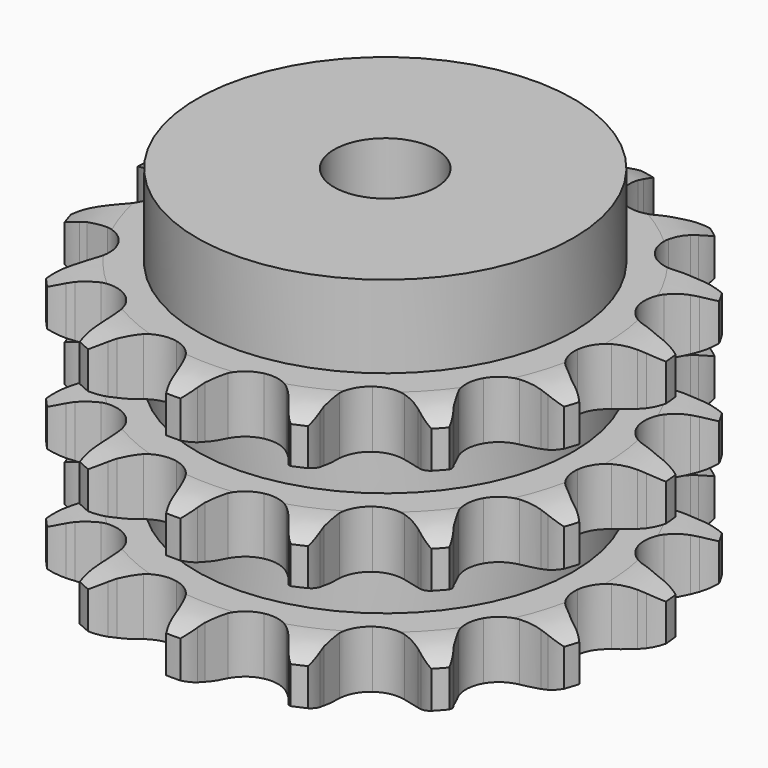
from build123d import *

# Parameters (mm, degrees)
PAD_DEPTH         = 42.1
SKETCH001_R       = 29.5
PAD001_DEPTH      = 55
SKETCH002_R       = 8
POCKET_DEPTH      = 0.001
POCKET_DEPTH_BACK = 55.001


with BuildPart() as part:
    # Sprocket → Pad (new body)
    with BuildSketch(Plane.XY):
        with BuildLine():
            ThreePointArc((-8.947326, 42.093861), (-7.364536, 40.607501), (-6.211077, 38.767928))
            Line((-6.211077, 38.767928), (-5.737395, 37.739646))
            ThreePointArc((-5.737395, 37.739646), (-4.954564, 36.285769), (-3.99725, 34.940357))
            ThreePointArc((-3.99725, 34.940357), (-2.214334, 33.534819), (0, 33.033766))
            ThreePointArc((0, 33.033766), (2.214334, 33.534819), (3.99725, 34.940357))
            ThreePointArc((3.99725, 34.940357), (4.954564, 36.285769), (5.737395, 37.739646))
            Line((5.737395, 37.739646), (6.211077, 38.767928))
            ThreePointArc((6.211077, 38.767928), (7.364536, 40.607501), (8.947326, 42.093861))
            ThreePointArc((8.947326, 42.093861), (9.78872, 40.092224), (10.094235, 37.942538))
            Line((10.094235, 37.942538), (10.108725, 36.810491))
            ThreePointArc((10.108725, 36.810491), (10.232533, 35.163902), (10.559854, 33.545433))
            ThreePointArc((10.559854, 33.545433), (11.616945, 31.536232), (13.436043, 30.177847))
            ThreePointArc((13.436043, 30.177847), (15.662734, 29.734931), (17.863193, 30.293776))
            Line((17.863193, 30.293776), (20.591468, 32.143273))
            ThreePointArc((20.591468, 32.143273), (21.008987, 32.525711), (21.442439, 32.889992))
            ThreePointArc((21.442439, 32.889992), (23.244397, 34.101371), (25.294905, 34.81545))
            ThreePointArc((25.294905, 34.81545), (25.249418, 32.644638), (24.654163, 30.556537))
            Line((24.654163, 30.556537), (24.206956, 29.516468))
            ThreePointArc((24.206956, 29.516468), (23.650332, 27.961877), (23.291063, 26.350198))
            ThreePointArc((23.291063, 26.350198), (23.439549, 24.084744), (24.548873, 22.103904))
            ThreePointArc((24.548873, 22.103904), (26.402906, 20.793603), (28.640428, 20.409126))
            Line((28.640428, 20.409126), (31.88509, 20.989036))
            ThreePointArc((31.88509, 20.989036), (32.422063, 21.16859), (32.966207, 21.325077))
            ThreePointArc((32.966207, 21.325077), (35.10509, 21.698805), (37.268765, 21.517132))
            ThreePointArc((37.268765, 21.517132), (36.344261, 19.552498), (34.951162, 17.887034))
            Line((34.951162, 17.887034), (34.119583, 17.118779))
            ThreePointArc((34.119583, 17.118779), (32.978773, 15.924989), (31.995036, 14.598775))
            ThreePointArc((31.995036, 14.598775), (31.209241, 12.468786), (31.416979, 10.207995))
            ThreePointArc((31.416979, 10.207995), (32.577775, 8.256872), (34.465472, 6.995553))
            Line((34.465472, 6.995553), (37.665489, 6.205605))
            ThreePointArc((37.665489, 6.205605), (38.22907, 6.151228), (38.789819, 6.072863))
            ThreePointArc((38.789819, 6.072863), (40.895795, 5.544318), (42.798517, 4.498305))
            ThreePointArc((42.798517, 4.498305), (41.154852, 3.079553), (39.204788, 2.124701))
            Line((39.204788, 2.124701), (38.132625, 1.761098))
            ThreePointArc((38.132625, 1.761098), (36.604885, 1.134526), (35.166776, 0.323091))
            ThreePointArc((35.166776, 0.323091), (33.582573, -1.30314), (32.852804, -3.452969))
            ThreePointArc((32.852804, -3.452969), (33.119651, -5.707547), (34.331124, -7.627615))
            Line((34.331124, -7.627615), (36.933183, -9.650833))
            ThreePointArc((36.933183, -9.650833), (37.425923, -9.929737), (37.906319, -10.229404))
            ThreePointArc((37.906319, -10.229404), (39.615245, -11.568832), (40.928016, -13.298319))
            ThreePointArc((40.928016, -13.298319), (38.849395, -13.925875), (36.679549, -14.005013))
            Line((36.679549, -14.005013), (35.55219, -13.901093))
            ThreePointArc((35.55219, -13.901093), (33.90168, -13.852107), (32.257862, -14.008458))
            ThreePointArc((32.257862, -14.008458), (30.149172, -14.84974), (28.608081, -16.516883))
            ThreePointArc((28.608081, -16.516883), (27.934838, -18.685079), (28.260612, -20.931899))
            Line((28.260612, -20.931899), (29.814794, -23.838553))
            ThreePointArc((29.814794, -23.838553), (30.151494, -24.293761), (30.468472, -24.762915))
            ThreePointArc((30.468472, -24.762915), (31.484859, -26.681626), (31.98069, -28.795543))
            ThreePointArc((31.98069, -28.795543), (29.826525, -28.523393), (27.812084, -27.713133))
            Line((27.812084, -27.713133), (26.824458, -27.159658))
            ThreePointArc((26.824458, -27.159658), (25.336566, -26.443585), (23.77127, -25.917818))
            ThreePointArc((23.77127, -25.917818), (21.502706, -25.828686), (19.416761, -26.724878))
            ThreePointArc((19.416761, -26.724878), (17.919838, -28.431791), (17.303583, -30.616867))
            Line((17.303583, -30.616867), (17.541157, -33.904371))
            ThreePointArc((17.541157, -33.904371), (17.663598, -34.457172), (17.762349, -35.014692))
            ThreePointArc((17.762349, -35.014692), (17.910455, -37.180924), (17.503612, -39.313755))
            ThreePointArc((17.503612, -39.313755), (15.646377, -38.188956), (14.135656, -36.6294))
            Line((14.135656, -36.6294), (13.458533, -35.722073))
            ThreePointArc((13.458533, -35.722073), (12.39053, -34.462726), (11.174409, -33.345751))
            ThreePointArc((11.174409, -33.345751), (9.138226, -32.341617), (6.868106, -32.311899))
            ThreePointArc((6.868106, -32.311899), (4.806336, -33.262389), (3.354608, -35.007901))
            Line((3.354608, -35.007901), (2.234494, -38.107816))
            ThreePointArc((2.234494, -38.107816), (2.121505, -38.662626), (1.984955, -39.212112))
            ThreePointArc((1.984955, -39.212112), (1.239171, -41.251302), (0, -43.034263))
            ThreePointArc((0, -43.034263), (-1.239171, -41.251302), (-1.984955, -39.212112))
            Line((-1.984955, -39.212112), (-2.234494, -38.107816))
            ThreePointArc((-2.234494, -38.107816), (-2.697941, -36.52295), (-3.354608, -35.007901))
            ThreePointArc((-3.354608, -35.007901), (-4.806336, -33.262389), (-6.868106, -32.311899))
            ThreePointArc((-6.868106, -32.311899), (-9.138226, -32.341617), (-11.174409, -33.345751))
            Line((-11.174409, -33.345751), (-13.458533, -35.722073))
            ThreePointArc((-13.458533, -35.722073), (-13.787415, -36.18296), (-14.135656, -36.6294))
            ThreePointArc((-14.135656, -36.6294), (-15.646377, -38.188956), (-17.503612, -39.313755))
            ThreePointArc((-17.503612, -39.313755), (-17.910455, -37.180924), (-17.762349, -35.014692))
            Line((-17.762349, -35.014692), (-17.541157, -33.904371))
            ThreePointArc((-17.541157, -33.904371), (-17.319914, -32.268023), (-17.303583, -30.616867))
            ThreePointArc((-17.303583, -30.616867), (-17.919838, -28.431791), (-19.416761, -26.724878))
            ThreePointArc((-19.416761, -26.724878), (-21.502706, -25.828686), (-23.77127, -25.917818))
            Line((-23.77127, -25.917818), (-26.824458, -27.159658))
            ThreePointArc((-26.824458, -27.159658), (-27.312366, -27.446932), (-27.812084, -27.713133))
            ThreePointArc((-27.812084, -27.713133), (-29.826525, -28.523393), (-31.98069, -28.795543))
            ThreePointArc((-31.98069, -28.795543), (-31.484859, -26.681626), (-30.468472, -24.762915))
            Line((-30.468472, -24.762915), (-29.814794, -23.838553))
            ThreePointArc((-29.814794, -23.838553), (-28.947116, -22.433663), (-28.260612, -20.931899))
            ThreePointArc((-28.260612, -20.931899), (-27.934838, -18.685079), (-28.608081, -16.516883))
            ThreePointArc((-28.608081, -16.516883), (-30.149172, -14.84974), (-32.257862, -14.008458))
            Line((-32.257862, -14.008458), (-35.55219, -13.901093))
            ThreePointArc((-35.55219, -13.901093), (-36.114761, -13.96508), (-36.679549, -14.005013))
            ThreePointArc((-36.679549, -14.005013), (-38.849395, -13.925875), (-40.928016, -13.298319))
            ThreePointArc((-40.928016, -13.298319), (-39.615245, -11.568832), (-37.906319, -10.229404))
            Line((-37.906319, -10.229404), (-36.933183, -9.650833))
            ThreePointArc((-36.933183, -9.650833), (-35.569099, -8.720318), (-34.331124, -7.627615))
            ThreePointArc((-34.331124, -7.627615), (-33.119651, -5.707547), (-32.852804, -3.452969))
            ThreePointArc((-32.852804, -3.452969), (-33.582573, -1.30314), (-35.166776, 0.323091))
            Line((-35.166776, 0.323091), (-38.132625, 1.761098))
            ThreePointArc((-38.132625, 1.761098), (-38.672586, 1.931461), (-39.204788, 2.124701))
            ThreePointArc((-39.204788, 2.124701), (-41.154852, 3.079553), (-42.798517, 4.498305))
            ThreePointArc((-42.798517, 4.498305), (-40.895795, 5.544318), (-38.789819, 6.072863))
            Line((-38.789819, 6.072863), (-37.665489, 6.205605))
            ThreePointArc((-37.665489, 6.205605), (-36.040862, 6.500849), (-34.465472, 6.995553))
            ThreePointArc((-34.465472, 6.995553), (-32.577775, 8.256872), (-31.416979, 10.207995))
            ThreePointArc((-31.416979, 10.207995), (-31.209241, 12.468786), (-31.995036, 14.598775))
            Line((-31.995036, 14.598775), (-34.119583, 17.118779))
            ThreePointArc((-34.119583, 17.118779), (-34.543569, 17.494035), (-34.951162, 17.887034))
            ThreePointArc((-34.951162, 17.887034), (-36.344261, 19.552498), (-37.268765, 21.517132))
            ThreePointArc((-37.268765, 21.517132), (-35.10509, 21.698805), (-32.966207, 21.325077))
            Line((-32.966207, 21.325077), (-31.88509, 20.989036))
            ThreePointArc((-31.88509, 20.989036), (-30.280832, 20.597961), (-28.640428, 20.409126))
            ThreePointArc((-28.640428, 20.409126), (-26.402906, 20.793603), (-24.548873, 22.103904))
            ThreePointArc((-24.548873, 22.103904), (-23.439549, 24.084744), (-23.291063, 26.350198))
            Line((-23.291063, 26.350198), (-24.206956, 29.516468))
            ThreePointArc((-24.206956, 29.516468), (-24.441655, 30.031732), (-24.654163, 30.556537))
            ThreePointArc((-24.654163, 30.556537), (-25.249418, 32.644638), (-25.294905, 34.81545))
            ThreePointArc((-25.294905, 34.81545), (-23.244397, 34.101371), (-21.442439, 32.889992))
            Line((-21.442439, 32.889992), (-20.591468, 32.143273))
            ThreePointArc((-20.591468, 32.143273), (-19.284971, 31.133497), (-17.863193, 30.293776))
            ThreePointArc((-17.863193, 30.293776), (-15.662734, 29.734931), (-13.436043, 30.177847))
            ThreePointArc((-13.436043, 30.177847), (-11.616945, 31.536232), (-10.559854, 33.545433))
            Line((-10.559854, 33.545433), (-10.108725, 36.810491))
            ThreePointArc((-10.108725, 36.810491), (-10.113557, 37.376669), (-10.094235, 37.942538))
            ThreePointArc((-10.094235, 37.942538), (-9.78872, 40.092224), (-8.947326, 42.093861))
        make_face()
    extrude(amount=PAD_DEPTH)

    # Sketch → Groove (revolve, cut)
    with BuildSketch(Plane.XZ):
        with BuildLine():
            ThreePointArc((34.525762, 0), (38.10347, 0.405129), (41.5, 1.6))
            Line((41.5, 1.6), (41.5, 7.4))
            ThreePointArc((41.5, 7.4), (38.10347, 8.594871), (34.525762, 9))
            Line((29.5, 9), (34.525762, 9))
            Line((29.5, 9), (29.5, 16.55))
            Line((29.5, 16.55), (34.525762, 16.55))
            ThreePointArc((34.525762, 16.55), (38.10347, 16.955129), (41.5, 18.15))
            Line((41.5, 23.95), (41.5, 18.15))
            ThreePointArc((41.5, 23.95), (38.10347, 25.144871), (34.525762, 25.55))
            Line((29.5, 25.55), (34.525762, 25.55))
            Line((29.5, 33.1), (29.5, 25.55))
            Line((34.525762, 33.1), (29.5, 33.1))
            ThreePointArc((34.525762, 33.1), (38.10347, 33.505129), (41.5, 34.7))
            Line((41.5, 34.7), (41.5, 40.5))
            ThreePointArc((41.5, 40.5), (38.10347, 41.694871), (34.525762, 42.1))
            Line((34.525762, 42.1), (51.5, 42.1))
            Line((51.5, 42.1), (51.5, 0))
            Line((34.525762, 0), (51.5, 0))
        make_face()
    revolve(axis=Axis((0, 0, 0), (0, 0, 1)), mode=Mode.SUBTRACT)

    # Sketch001 → Pad001 (join)
    with BuildSketch(Plane.XY):
        Circle(SKETCH001_R)
    extrude(amount=PAD001_DEPTH)

    # Sketch002 → Pocket (cut, two sides)
    with BuildSketch(Plane.XY) as pocket_sk:
        Circle(SKETCH002_R)
    extrude(amount=-POCKET_DEPTH, mode=Mode.SUBTRACT)
    extrude(pocket_sk.sketch, amount=POCKET_DEPTH_BACK, mode=Mode.SUBTRACT)


solid = part.part
